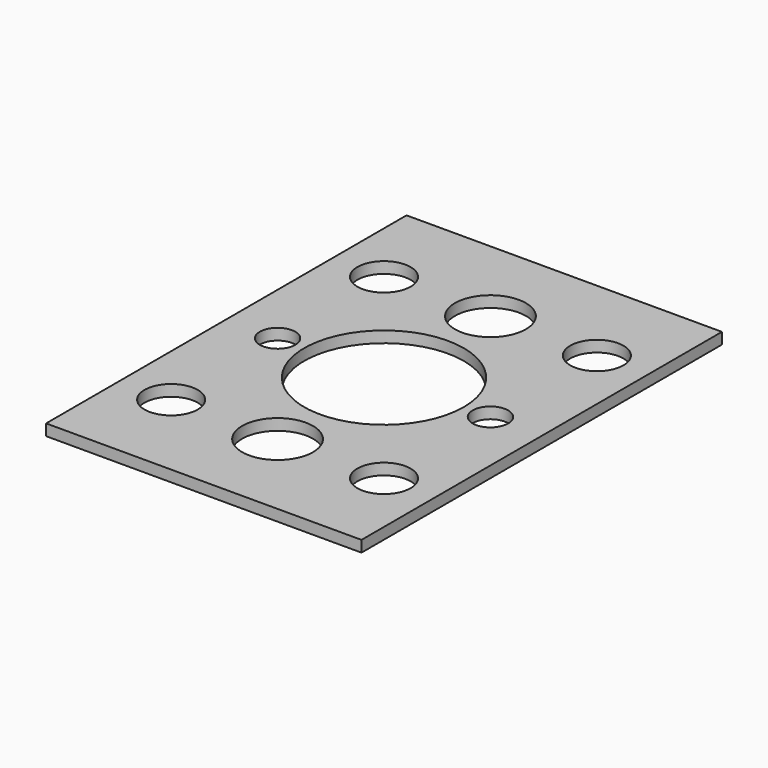
from build123d import *

# Parameters (mm, degrees)
F0_W     = 177.8
F0_H     = 254
F0_R     = 15
F0_R_2   = 20
F0_R_3   = 10
F0_R_4   = 45
F1_DEPTH = 6.35


with BuildPart() as f1:
    # F0 (on Top) → F1 (new body)
    with BuildSketch(Plane.XY):
        Rectangle(F0_W, F0_H)
        with Locations((-60, -75)):
            Circle(F0_R, mode=Mode.SUBTRACT)
        with Locations((0, -75)):
            Circle(F0_R_2, mode=Mode.SUBTRACT)
        with Locations((60, -75)):
            Circle(F0_R, mode=Mode.SUBTRACT)
        with Locations((-60, 0)):
            Circle(F0_R_3, mode=Mode.SUBTRACT)
        with Locations((-60, 75)):
            Circle(F0_R, mode=Mode.SUBTRACT)
        Circle(F0_R_4, mode=Mode.SUBTRACT)
        with Locations((60, 0)):
            Circle(F0_R_3, mode=Mode.SUBTRACT)
        with Locations((0, 75)):
            Circle(F0_R_2, mode=Mode.SUBTRACT)
        with Locations((60, 75)):
            Circle(F0_R, mode=Mode.SUBTRACT)
    extrude(amount=F1_DEPTH)


solid = f1.part
